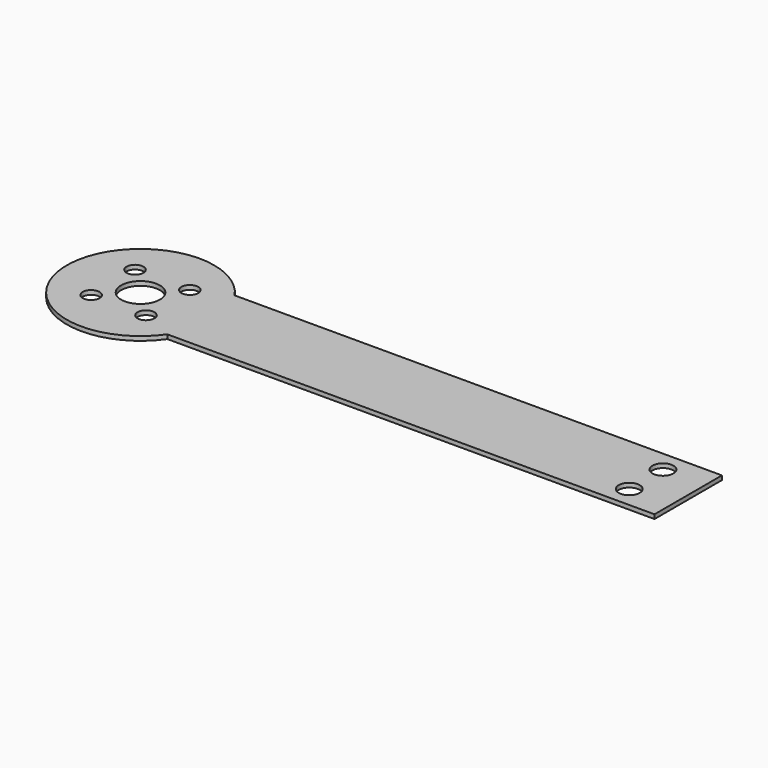
from build123d import *

# Parameters (mm, degrees)
F0_R     = 2
F0_R_2   = 4.6
F0_R_3   = 2.5
F1_DEPTH = 1


with BuildPart() as f1:
    # F0 (on Top) → F1 (new body)
    with BuildSketch(Plane.XY):
        with BuildLine():
            Line((-55.638593, -10), (60, -10))
            Line((60, -10), (60, 10))
            Line((60, 10), (-55.638593, 10))
            ThreePointArc((-55.638593, 10), (-87.5, 0), (-55.638593, -10))
        make_face()
        with Locations((-76.505382, -6.505382)):
            Circle(F0_R, mode=Mode.SUBTRACT)
        with Locations((-63.494618, -6.505382)):
            Circle(F0_R, mode=Mode.SUBTRACT)
        with Locations((-70, 0)):
            Circle(F0_R_2, mode=Mode.SUBTRACT)
        with Locations((50, -5)):
            Circle(F0_R_3, mode=Mode.SUBTRACT)
        with Locations((-76.505382, 6.505382)):
            Circle(F0_R, mode=Mode.SUBTRACT)
        with Locations((-63.494618, 6.505382)):
            Circle(F0_R, mode=Mode.SUBTRACT)
        with Locations((50, 5)):
            Circle(F0_R_3, mode=Mode.SUBTRACT)
    extrude(amount=F1_DEPTH)


solid = f1.part
